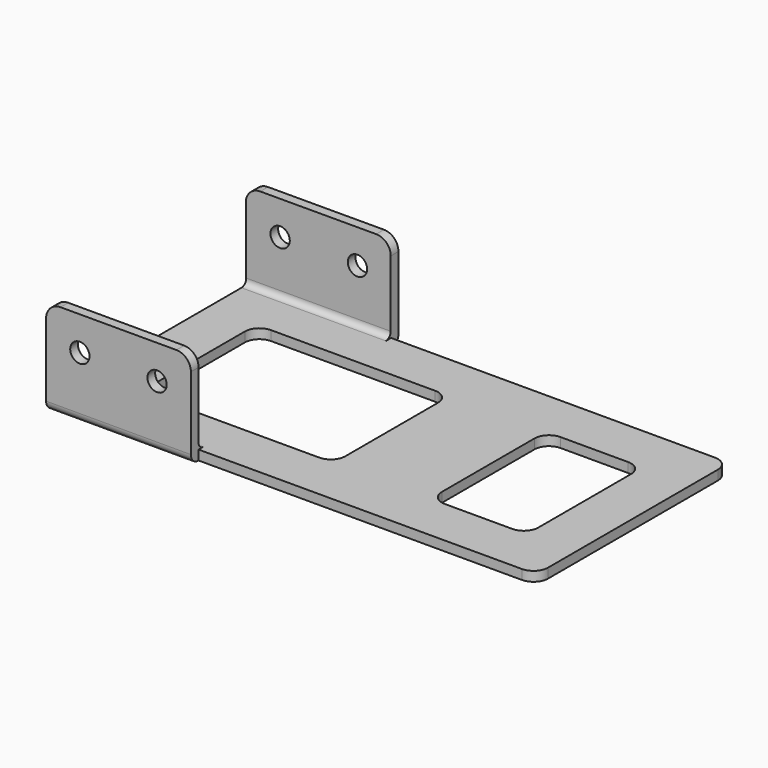
from build123d import *

# Parameters (mm, degrees)
CYLINDER_R                = 2
CYLINDER_DEPTH            = 60
CYLINDER001_R             = 2
CYLINDER001_DEPTH         = 60
BOX003_W                  = 30
BOX003_H                  = 2
BOX003_DEPTH              = 20
FILLET002_R               = 1.9
FILLET004_R               = 3
BOX004_W                  = 30
BOX004_H                  = 2
BOX004_DEPTH              = 20
FILLET003_R               = 1.9
FILLET003_PLACEMENT_ANGLE = 180.1
FILLET005_R               = 3
BOX001_W                  = 40
BOX001_H                  = 30
BOX001_DEPTH              = 10
BOX002_W                  = 20
BOX002_H                  = 30
BOX002_DEPTH              = 10
BOX_W                     = 100
BOX_H                     = 50
BOX_DEPTH                 = 2
FILLET_R                  = 3
FILLET001_R               = 3
FILLET006_R               = 1.25


with BuildPart() as cylinder:
    # Cylinder → Cylinder (new body)
    with BuildSketch(Plane(origin=(7, -6, 13), x_dir=(1, 0, 0), z_dir=(0, 1, 0))):
        Circle(CYLINDER_R)
    extrude(amount=CYLINDER_DEPTH)


with BuildPart() as fusion002:
    # Cylinder001 → Cylinder001 (new body)
    with BuildSketch(Plane(origin=(23, -6, 13), x_dir=(1, 0, 0), z_dir=(0, 1, 0))):
        Circle(CYLINDER001_R)
    extrude(amount=CYLINDER001_DEPTH)

    # Fusion002: union Cylinder
    add(cylinder.part)


with BuildPart() as fillet004:
    # Box003 → Box003 (new body)
    with BuildSketch(Plane(origin=(0, -1, 2), x_dir=(1, 0, 0), z_dir=(0, 0, 1))):
        with Locations((15, 1)):
            Rectangle(BOX003_W, BOX003_H)
    extrude(amount=BOX003_DEPTH)

    # Fillet002
    fillet002_edges = [fillet004.edges().sort_by_distance(p)[0] for p in [
        (15, -1, 2),
    ]]
    fillet(fillet002_edges, radius=FILLET002_R)


with BuildPart() as fillet004_1:
    # Fillet002 placement: moved
    add(fillet004.part.moved(Location((0, -1, -2))))

    # Fillet004
    fillet004_edges = [fillet004_1.edges().sort_by_distance(p)[0] for p in [
        (0, -1, 20),
        (30, -1, 20),
    ]]
    fillet(fillet004_edges, radius=FILLET004_R)


with BuildPart() as cut001:
    # Box004 → Box004 (new body)
    with BuildSketch(Plane(origin=(0, -1, 2), x_dir=(1, 0, 0), z_dir=(0, 0, 1))):
        with Locations((15, 1)):
            Rectangle(BOX004_W, BOX004_H)
    extrude(amount=BOX004_DEPTH)

    # Fillet003
    fillet003_edges = [cut001.edges().sort_by_distance(p)[0] for p in [
        (15, -1, 2),
    ]]
    fillet(fillet003_edges, radius=FILLET003_R)


with BuildPart() as cut001_1:
    # Fillet003 placement: moved
    add(cut001.part.moved(Location((29.889927, 50.903819, -2))).rotate(Axis((29.889927, 50.903819, -2), (0, 0, 1)), FILLET003_PLACEMENT_ANGLE))

    # Fillet005
    fillet005_edges = [cut001_1.edges().sort_by_distance(p)[0] for p in [
        (29.889927, 50.903819, 20),
        (-0.110027, 50.851459, 20),
    ]]
    fillet(fillet005_edges, radius=FILLET005_R)

    # Fusion001: union Fillet004
    add(fillet004_1.part)

    # Cut001: cut Fusion002
    add(fusion002.part, mode=Mode.SUBTRACT)


with BuildPart() as cube001:
    # Box001 → Box001 (new body)
    with BuildSketch(Plane(origin=(10, 10, -2), x_dir=(1, 0, 0), z_dir=(0, 0, 1))):
        with Locations((20, 15)):
            Rectangle(BOX001_W, BOX001_H)
    extrude(amount=BOX001_DEPTH)


with BuildPart() as fusion:
    # Box002 → Box002 (new body)
    with BuildSketch(Plane(origin=(70, 10, -2), x_dir=(1, 0, 0), z_dir=(0, 0, 1))):
        with Locations((10, 15)):
            Rectangle(BOX002_W, BOX002_H)
    extrude(amount=BOX002_DEPTH)

    # Fusion: union Cube001
    add(cube001.part)


with BuildPart() as fillet006:
    # Box → Box (new body)
    with BuildSketch(Plane.XY):
        with Locations((50, 25)):
            Rectangle(BOX_W, BOX_H)
    extrude(amount=BOX_DEPTH)

    # Cut: cut Fusion
    add(fusion.part, mode=Mode.SUBTRACT)

    # Fillet
    fillet_edges = [fillet006.edges().sort_by_distance(p)[0] for p in [
        (50, 10, 1),
        (10, 10, 1),
        (50, 40, 1),
        (10, 40, 1),
        (90, 10, 1),
        (70, 10, 1),
        (90, 40, 1),
        (70, 40, 1),
    ]]
    fillet(fillet_edges, radius=FILLET_R)

    # Fillet001
    fillet001_edges = [fillet006.edges().sort_by_distance(p)[0] for p in [
        (100, 50, 1),
        (100, 0, 1),
    ]]
    fillet(fillet001_edges, radius=FILLET001_R)

    # Fusion003: union Cut001
    add(cut001_1.part)

    # Fillet006
    fillet006_edges = [fillet006.edges().sort_by_distance(p)[0] for p in [
        (14.945836, 49.877735, 2),
        (15, 0, 2),
    ]]
    fillet(fillet006_edges, radius=FILLET006_R)


solid = fillet006.part
